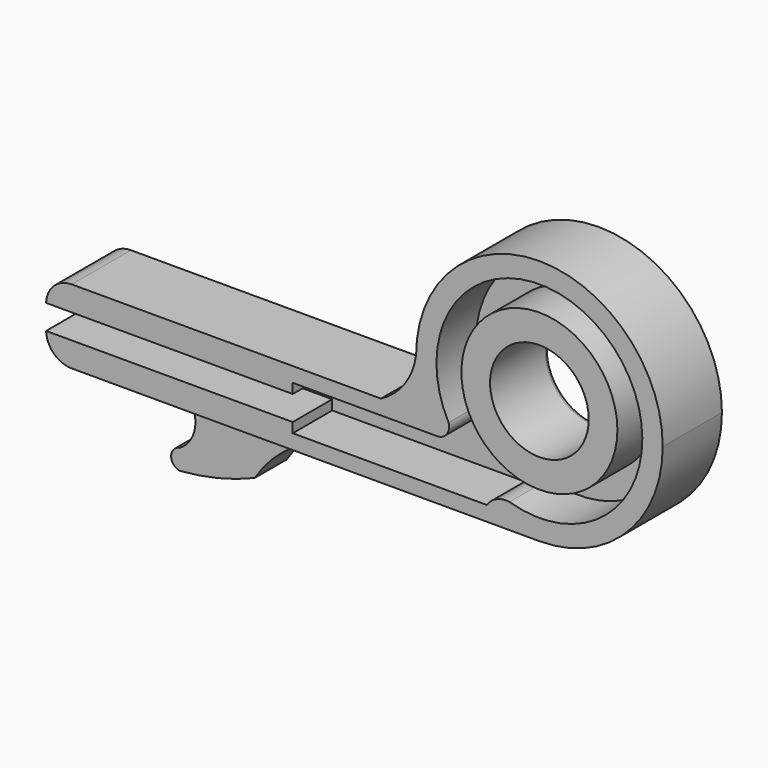
from build123d import *

# Parameters (mm, degrees)
F0_R     = 5.08
F1_DEPTH = 7.62
F2_R     = 8.032786
F3_DEPTH = 5.08
F4_R     = 2.636804
F5_R     = 0.508
F7_DEPTH = 4.1148


with BuildPart() as f1:
    # F0 (on Front) → F1 (new body)
    with BuildSketch(Plane.XZ):
        with BuildLine():
            ThreePointArc((0, -12.7), (8.980256, -8.980256), (12.7, 0))
            ThreePointArc((12.7, 0), (0, 12.7), (-12.7, 0))
            ThreePointArc((-12.7, 0), (-8.980256, -8.980256), (0, -12.7))
        make_face()
        Circle(F0_R, mode=Mode.SUBTRACT)
        with BuildLine():
            ThreePointArc((0, -12.7), (-8.980256, -8.980256), (-12.7, 0))
            ThreePointArc((-12.7, 0), (-13.8923, -2.978256), (-16.315987, -5.08))
            Line((-16.315987, -5.08), (-50.8, -5.08))
            Line((-50.8, -5.08), (-50.8, -12.7))
            Line((-50.8, -12.7), (0, -12.7))
        make_face()
    extrude(amount=F1_DEPTH)

    # F2 (on face) → F3 (cut)
    with BuildSketch(Plane.XZ.offset(7.62)):
        with BuildLine():
            Line((-25.4, -7.62), (-50.8, -7.62))
            Line((-50.8, -7.62), (-50.8, -10.16))
            Line((-50.8, -10.16), (-25.4, -10.16))
            Line((-25.4, -10.16), (-25.4, -11.176))
            Line((-25.4, -11.176), (-5.420324, -11.176))
            ThreePointArc((-5.420324, -11.176), (-4.39868, -10.322378), (-3.079561, -10.142513))
            ThreePointArc((-3.079561, -10.142513), (6.727909, 8.190818), (-9.351117, -4.991079))
            ThreePointArc((-9.351117, -4.991079), (-9.532285, -6.092003), (-10.523605, -6.604))
            Line((-10.523605, -6.604), (-10.551615, -6.604))
            Line((-10.551615, -6.604), (-25.4, -6.604))
            Line((-25.4, -6.604), (-25.4, -7.62))
        make_face()
        Circle(F2_R, mode=Mode.SUBTRACT)
    extrude(amount=-F3_DEPTH, mode=Mode.SUBTRACT)

    # F4
    f4_edges = [f1.edges().sort_by_distance(p)[0] for p in [
        (-50.8, -3.81, -5.08),
        (-50.8, -3.81, -12.7),
    ]]
    fillet(f4_edges, radius=F4_R)

    # F5
    f5_edges = [f1.edges().sort_by_distance(p)[0] for p in [
        (-5.08, 0, 0),
    ]]
    fillet(f5_edges, radius=F5_R)

    # F6 (on Front) → F7 (join)
    with BuildSketch(Plane.XZ):
        with BuildLine():
            ThreePointArc((-40.439792, -12.663556), (-38.240899, -15.451491), (-39.844185, -18.619642))
            ThreePointArc((-39.844185, -18.619642), (-40.724568, -19.661956), (-39.844185, -20.704271))
            ThreePointArc((-39.844185, -20.704271), (-35.908664, -20.084477), (-32.122858, -18.84345))
            ThreePointArc((-32.122858, -18.84345), (-27.401871, -14.325342), (-21.076703, -12.684218))
            Line((-21.076703, -12.684218), (-40.439792, -12.663556))
        make_face()
    extrude(amount=F7_DEPTH)


solid = f1.part
